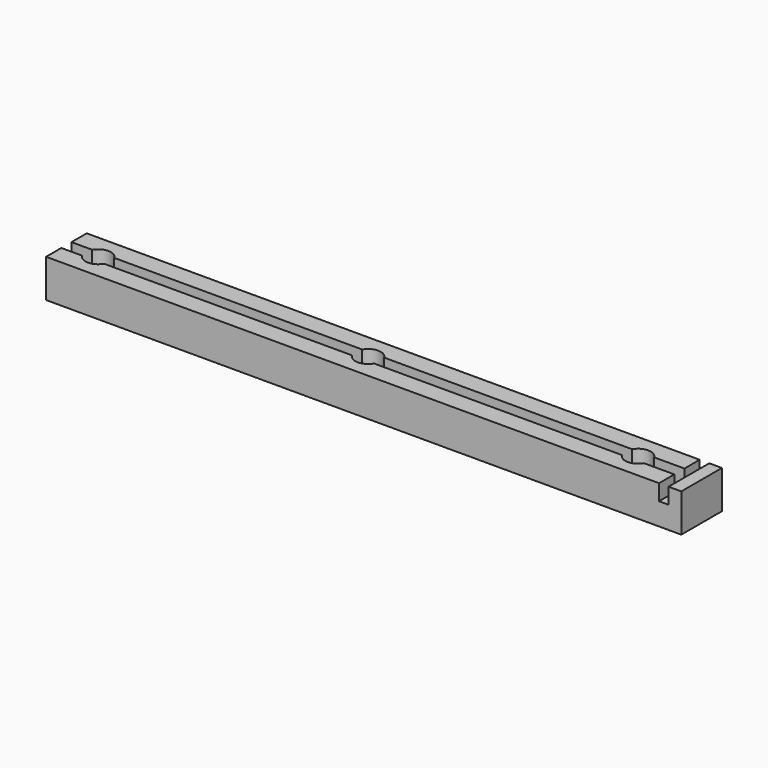
from build123d import *

# Parameters (mm, degrees)
F0_W     = 200
F0_H     = 16
F1_DEPTH = 12
F2_W     = 196
F2_H     = 4
F3_DEPTH = 5
F4_R     = 4
F5_DEPTH = 10
F7_D     = 5
F8_W     = 3
F8_H     = 6
F9_DEPTH = 5


with BuildPart() as f1:
    # F0 (on Top) → F1 (new body)
    with BuildSketch(Plane.XY):
        with Locations((-100, 8)):
            Rectangle(F0_W, F0_H)
    extrude(amount=F1_DEPTH)

    # F2 (on face) → F3 (cut)
    with BuildSketch(Plane.XY.offset(12)):
        with Locations((-102, 8)):
            Rectangle(F2_W, F2_H)
    extrude(amount=-F3_DEPTH, mode=Mode.SUBTRACT)

    # F4 (on face) → F5 (cut)
    with BuildSketch(Plane.XY.offset(12)):
        with Locations((-190, 8)):
            Circle(F4_R)
        with Locations((-105, 8)):
            Circle(F4_R)
        with Locations((-20, 8)):
            Circle(F4_R)
    extrude(amount=-F5_DEPTH, mode=Mode.SUBTRACT)

    # F7 (through all)
    with Locations(Plane.XY.offset(12)):
        with Locations((-105, 8), (-190, 8), (-20, 8)):
            Hole(F7_D / 2)

    # F8 (on face) → F9 (cut)
    with BuildSketch(Plane.XY.offset(12)):
        with Locations((-5.5, 13)):
            Rectangle(F8_W, F8_H)
        with Locations((-5.5, 3)):
            Rectangle(F8_W, F8_H)
    extrude(amount=-F9_DEPTH, mode=Mode.SUBTRACT)


solid = f1.part
